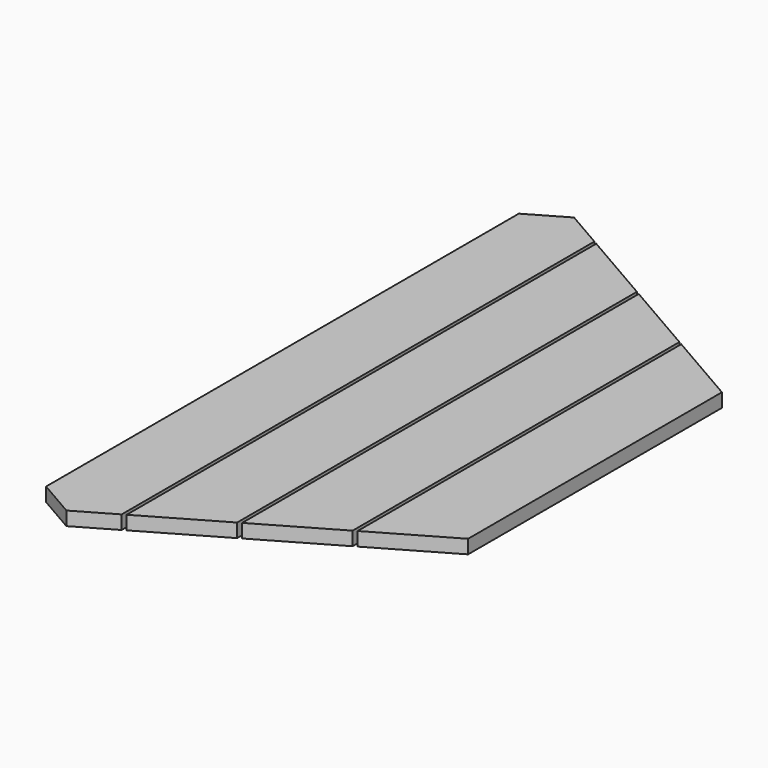
from build123d import *

# Parameters (mm, degrees)
F1_DEPTH = 25.4
F3_DEPTH = 25.4
F5_DEPTH = 25.4
F7_DEPTH = 25.4


with BuildPart() as f1:
    # F0 (on Top) → F1 (new body)
    with BuildSketch(Plane.XY):
        Polygon((-69.85, 40.327916), (0, 0), (69.85, 40.327916), (69.85, 1132.847831), (0, 1173.175747), (-69.85, 1132.847831), align=None)
    extrude(amount=F1_DEPTH)


with BuildPart() as f3:
    # F2 (on Top) → F3 (new body)
    with BuildSketch(Plane.XY):
        Polygon((76.2, 1129.181656), (76.2, 43.994091), (215.9, 124.649923), (215.9, 1048.525824), align=None)
    extrude(amount=F3_DEPTH)


with BuildPart() as f5:
    # F4 (on Top) → F5 (new body)
    with BuildSketch(Plane.XY):
        Polygon((361.95, 964.203817), (222.25, 1044.85965), (222.25, 128.316097), (361.95, 208.97193), align=None)
    extrude(amount=F5_DEPTH)


with BuildPart() as f7:
    # F6 (on Top) → F7 (new body)
    with BuildSketch(Plane.XY):
        Polygon((368.3, 960.537643), (368.3, 212.638104), (508, 293.293937), (508, 879.88181), align=None)
    extrude(amount=F7_DEPTH)


solid = Compound([f1.part, f3.part, f5.part, f7.part])
